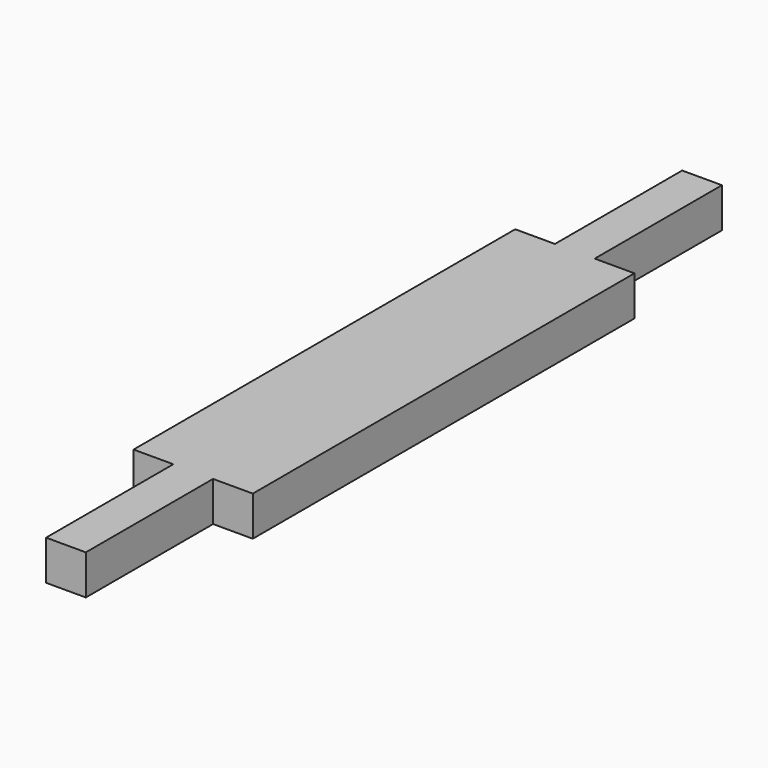
from build123d import *

# Parameters (mm, degrees)
PAD020_DEPTH = 5


with BuildPart() as part:
    # Sketch025 → Pad020 (new body)
    with BuildSketch(Plane(origin=(0, 36, 115), x_dir=(1, 0, 0), z_dir=(0, 0, 1))):
        Polygon((7.5, 30), (7.5, -30), (2.5, -30), (2.5, -50), (-2.5, -50), (-2.5, -30), (-7.5, -30), (-7.5, 30), (-2.5, 30), (-2.5, 50), (2.5, 50), (2.5, 30), align=None)
    extrude(amount=PAD020_DEPTH)


solid = part.part
